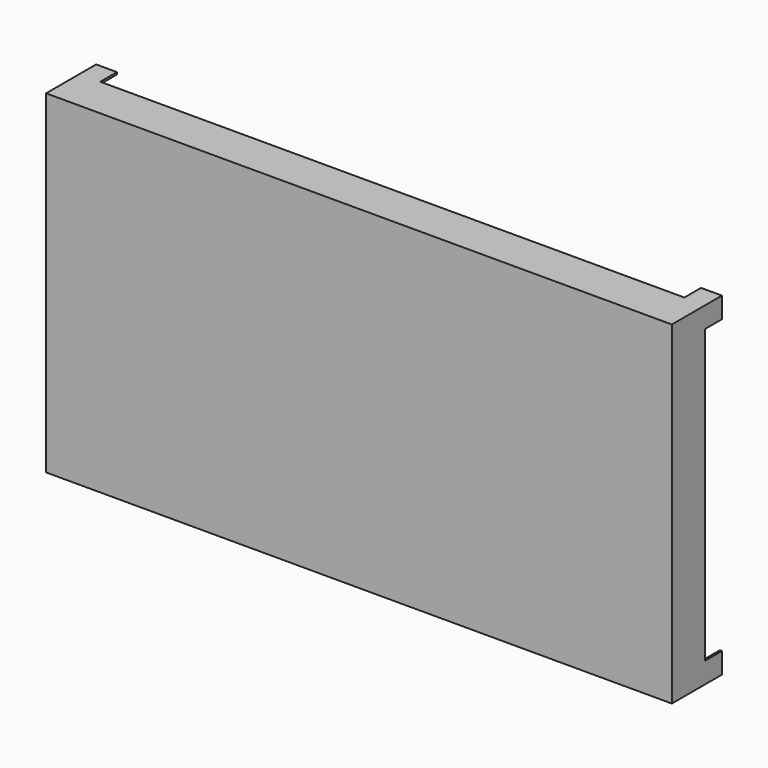
from build123d import *

# Parameters (mm, degrees)
F0_W     = 1500
F0_H     = 800
F1_DEPTH = 50
F3_DEPTH = 50


with BuildPart() as f1:
    # F0 (on Front) → F1 (new body, symmetric)
    with BuildSketch(Plane.XZ):
        Rectangle(F0_W, F0_H)
    extrude(amount=F1_DEPTH, both=True)

    # F2 (on face) → F3 (join)
    with BuildSketch(Plane(origin=(0, 50, 0), x_dir=(-1, 0, 0), z_dir=(0, 1, 0))):
        Polygon((700, -400), (750, -400), (750, -350), (745, -350), (745, -395), (700, -395), align=None)
        Polygon((-750, -400), (-700, -400), (-700, -395), (-745, -395), (-745, -350), (-750, -350), align=None)
        Polygon((-700, 395), (-700, 400), (-750, 400), (-750, 350), (-745, 350), (-745, 395), align=None)
        Polygon((745, 350), (750, 350), (750, 400), (700, 400), (700, 395), (745, 395), align=None)
    extrude(amount=F3_DEPTH)


solid = f1.part
